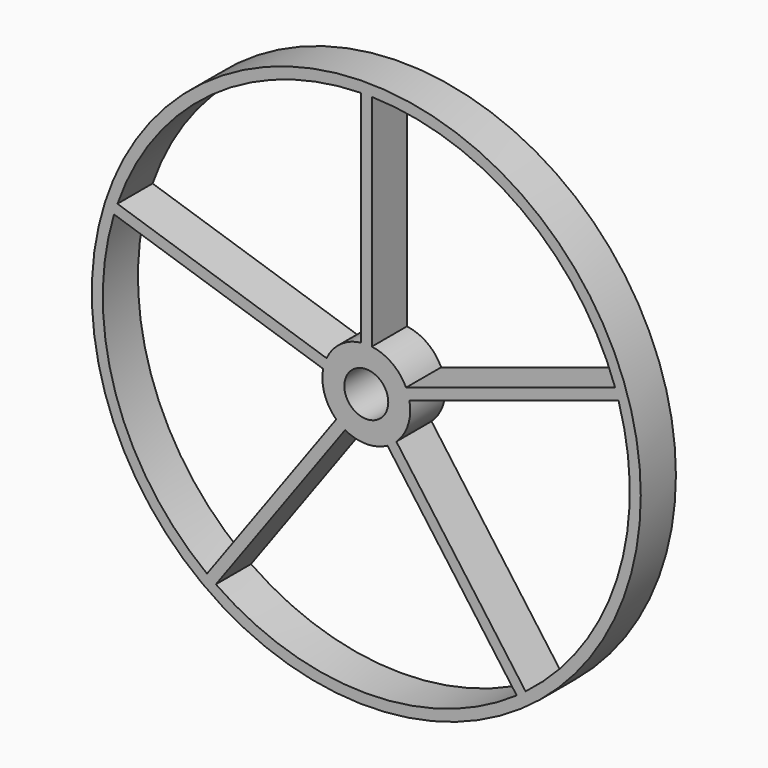
from build123d import *

# Parameters (mm, degrees)
F0_R     = 158.75
F0_R_2   = 12.7
F1_DEPTH = 25.4


with BuildPart() as f1:
    # F0 (on Front) → F1 (new body)
    with BuildSketch(Plane.XZ):
        Circle(F0_R)
        with BuildLine():
            ThreePointArc((-24.948496, 4.767865), (-24.156836, -7.849032), (-17.381277, -18.521642))
            Line((-17.381277, -18.521642), (-92.12766, -121.401212))
            ThreePointArc((-92.12766, -121.401212), (-144.941013, -47.09419), (-145.890684, 44.064364))
            Line((-145.890684, 44.064364), (-24.948496, 4.767865))
        make_face(mode=Mode.SUBTRACT)
        with BuildLine():
            ThreePointArc((-12.244019, -22.254078), (0, -25.4), (12.244019, -22.254078))
            Line((12.244019, -22.254078), (86.990402, -125.133649))
            ThreePointArc((86.990402, -125.133649), (0, -152.4), (-86.990402, -125.133649))
            Line((-86.990402, -125.133649), (-12.244019, -22.254078))
        make_face(mode=Mode.SUBTRACT)
        with BuildLine():
            ThreePointArc((17.381277, -18.521642), (24.156836, -7.849032), (24.948496, 4.767865))
            Line((24.948496, 4.767865), (145.890684, 44.064364))
            ThreePointArc((145.890684, 44.064364), (144.941013, -47.09419), (92.12766, -121.401212))
            Line((92.12766, -121.401212), (17.381277, -18.521642))
        make_face(mode=Mode.SUBTRACT)
        with BuildLine():
            ThreePointArc((-143.928426, 50.103573), (-89.578472, 123.29419), (-3.175, 152.366923))
            Line((-3.175, 152.366923), (-3.175, 25.200781))
            ThreePointArc((-3.175, 25.200781), (-14.929745, 20.549032), (-22.986238, 10.807074))
            Line((-22.986238, 10.807074), (-143.928426, 50.103573))
        make_face(mode=Mode.SUBTRACT)
        Circle(F0_R_2, mode=Mode.SUBTRACT)
        with BuildLine():
            ThreePointArc((22.986238, 10.807074), (14.929745, 20.549032), (3.175, 25.200781))
            Line((3.175, 25.200781), (3.175, 152.366923))
            ThreePointArc((3.175, 152.366923), (89.578472, 123.29419), (143.928426, 50.103573))
            Line((143.928426, 50.103573), (22.986238, 10.807074))
        make_face(mode=Mode.SUBTRACT)
    extrude(amount=F1_DEPTH)


solid = f1.part
